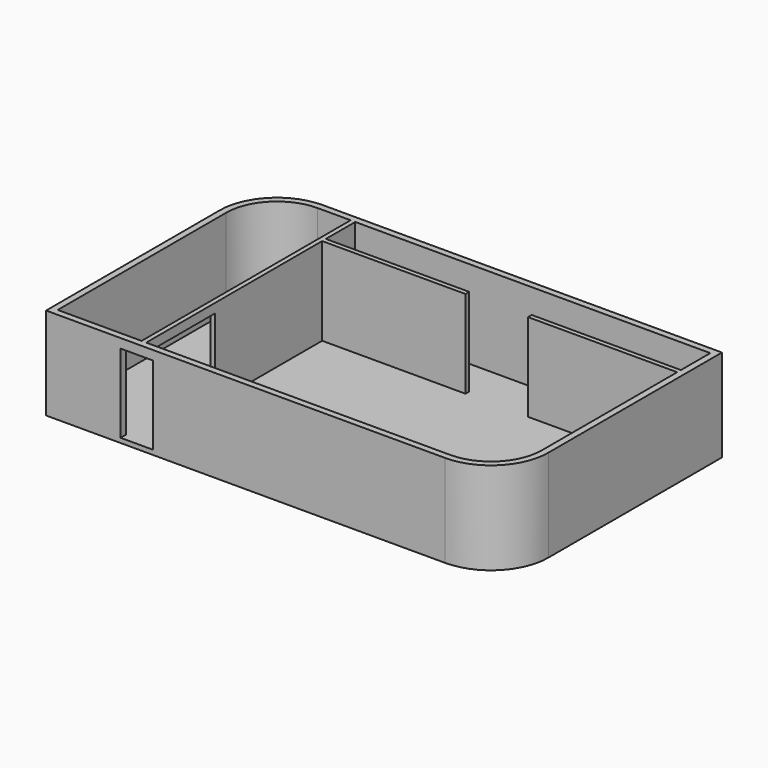
from build123d import *

# Parameters (mm, degrees)
F1_DEPTH = 25.4
F2_DEPTH = 1.27
F3_W     = 8.89
F3_H     = 21.59
F4_DEPTH = 25.4


with BuildPart() as f1:
    # F0 (on Top) → F1 (new body)
    with BuildSketch(Plane.XY):
        with BuildLine():
            Line((59.960537, 45.825542), (-49.74861, 45.825542))
            ThreePointArc((-49.74861, 45.825542), (-60.884126, 41.21306), (-65.496609, 30.077543))
            Line((-65.496609, 30.077543), (-65.496609, -29.551196))
            Line((-65.496609, -29.551196), (44.212538, -29.551196))
            ThreePointArc((44.212538, -29.551196), (55.348055, -24.938714), (59.960537, -13.803197))
            Line((59.960537, -13.803197), (59.960537, 45.825542))
        make_face()
        with BuildLine():
            ThreePointArc((-63.71861, 30.077543), (-59.626891, 39.955824), (-49.74861, 44.047543))
            Line((-49.74861, 44.047543), (-40.670957, 44.047543))
            Line((-40.670957, 44.047543), (-40.670957, -27.773197))
            Line((-40.670957, -27.773197), (-63.71861, -27.773197))
            Line((-63.71861, -27.773197), (-63.71861, 30.077543))
        make_face(mode=Mode.SUBTRACT)
        with BuildLine():
            Line((-39.400957, 44.047543), (58.182538, 44.047543))
            Line((58.182538, 44.047543), (58.182538, 33.949472))
            Line((58.182538, 33.949472), (17.172182, 33.949472))
            Line((17.172182, 33.949472), (17.172182, 32.679472))
            Line((17.172182, 32.679472), (58.182538, 32.679472))
            Line((58.182538, 32.679472), (58.182538, -13.803197))
            ThreePointArc((58.182538, -13.803197), (54.090819, -23.681479), (44.212538, -27.773197))
            Line((44.212538, -27.773197), (-39.400957, -27.773197))
            Line((-39.400957, -27.773197), (-39.400957, 32.679472))
            Line((-39.400957, 32.679472), (0, 32.679472))
            Line((0, 32.679472), (0, 33.949472))
            Line((0, 33.949472), (-39.400957, 33.949472))
            Line((-39.400957, 33.949472), (-39.400957, 44.047543))
        make_face(mode=Mode.SUBTRACT)
    extrude(amount=F1_DEPTH)

    # F0 (on Top) → F2 (join)
    with BuildSketch(Plane.XY):
        with BuildLine():
            Line((-40.670957, 44.047543), (-49.74861, 44.047543))
            ThreePointArc((-49.74861, 44.047543), (-59.626891, 39.955824), (-63.71861, 30.077543))
            Line((-63.71861, 30.077543), (-63.71861, -27.773197))
            Line((-63.71861, -27.773197), (-40.670957, -27.773197))
            Line((-40.670957, -27.773197), (-40.670957, 44.047543))
        make_face()
        with BuildLine():
            Line((58.182538, 33.949472), (58.182538, 44.047543))
            Line((58.182538, 44.047543), (-39.400957, 44.047543))
            Line((-39.400957, 44.047543), (-39.400957, 33.949472))
            Line((-39.400957, 33.949472), (0, 33.949472))
            Line((0, 33.949472), (0, 32.679472))
            Line((0, 32.679472), (-39.400957, 32.679472))
            Line((-39.400957, 32.679472), (-39.400957, -27.773197))
            Line((-39.400957, -27.773197), (44.212538, -27.773197))
            ThreePointArc((44.212538, -27.773197), (54.090819, -23.681479), (58.182538, -13.803197))
            Line((58.182538, -13.803197), (58.182538, 32.679472))
            Line((58.182538, 32.679472), (17.172182, 32.679472))
            Line((17.172182, 32.679472), (17.172182, 33.949472))
            Line((17.172182, 33.949472), (58.182538, 33.949472))
        make_face()
    extrude(amount=F2_DEPTH)

    # F3 (on face) → F4 (cut)
    with BuildSketch(Plane.XZ.offset(29.551196)):
        with Locations((-40.575533, 12.065)):
            Rectangle(F3_W, F3_H)
    extrude(amount=-F4_DEPTH, mode=Mode.SUBTRACT)


solid = f1.part
